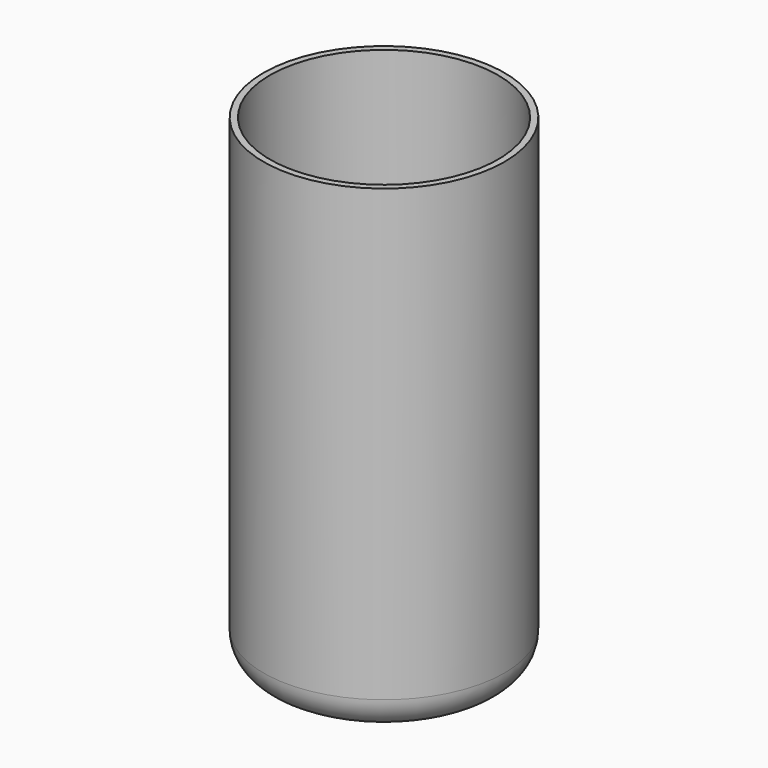
from build123d import *

# Parameters (mm, degrees)
F2_T = -2


with BuildPart() as f1:
    # F0 (on Front) → F1 (revolve)
    with BuildSketch(Plane.XZ):
        with BuildLine():
            Line((0, 75), (-37.5, 75))
            Line((-37.5, 75), (-37.5, -65))
            ThreePointArc((-37.5, -65), (-34.571068, -72.071068), (-27.5, -75))
            Line((-27.5, -75), (0, -75))
            Line((0, -75), (0, 75))
        make_face()
    revolve(axis=Axis((0, 0, 0), (0, 0, -1)))

    # F2
    f2_openings = [f1.faces().sort_by_distance(p)[0] for p in [
        (0, 0, 75),
    ]]
    offset(amount=F2_T, openings=f2_openings)


solid = f1.part
